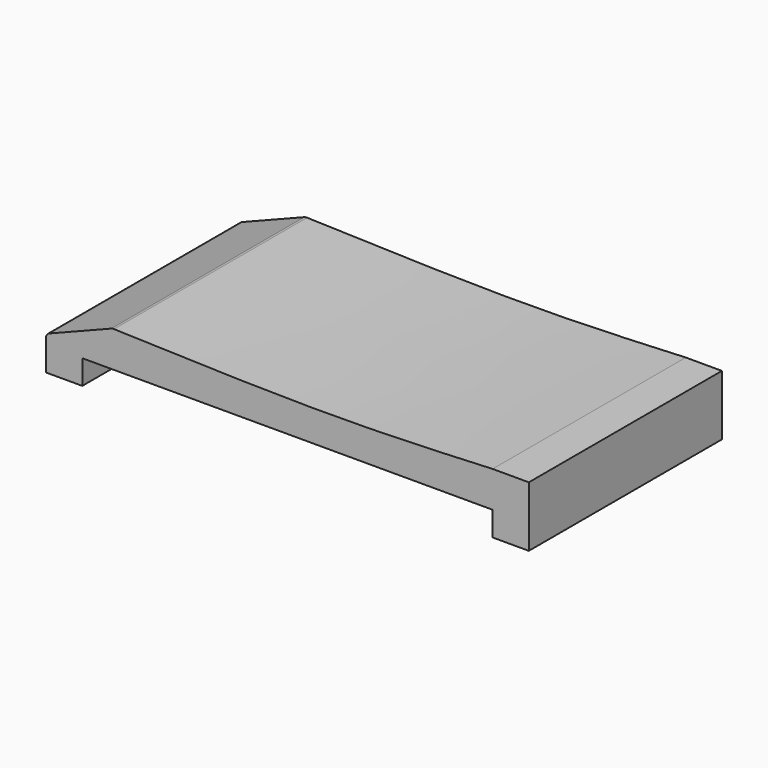
from build123d import *

# Parameters (mm, degrees)
F1_DEPTH = 100


with BuildPart() as f1:
    # F0 (on Front) → F1 (new body)
    with BuildSketch(Plane.XZ):
        with BuildLine():
            Line((120.0741728375, 0), (135.0741728375, 0))
            Line((135.0741728375, 0), (135.0741728375, 25))
            Line((135.0741728375, 25), (120.0741728375, 25))
            add(Edge.make_bspline(
                [(54.6545017668, 23), (78.3219379597, 23.1046927603), (99.1980553986, 24.0523463801), (120.0741728375, 25)],
                knots=[0.5426051209, 0.5426051209, 0.5426051209, 0.5426051209, 1, 1, 1, 1], degree=3))
            add(Edge.make_bspline(
                [(-36.8098244289, 24.9793669669), (-5.0124766294, 23.9241959427), (26.7597618153, 22.8766077872), (54.6545017668, 23)],
                knots=[0.0035137253, 0.0035137253, 0.0035137253, 0.0035137253, 0.5426051209, 0.5426051209, 0.5426051209, 0.5426051209], degree=3))
            ThreePointArc((-36.8098244289, 24.9793669669), (-37.4207013219, 24.9371113718), (-38.0102732534, 24.771699609))
            Line((-38.0102732534, 24.771699609), (-63.4567896839, 14.7328052322))
            ThreePointArc((-63.4567896839, 14.7328052322), (-64.5167270718, 14.0166117551), (-64.9258271625, 12.804573192))
            Line((-64.9258271625, 12.804573192), (-64.9258271625, 0))
            Line((-64.9258271625, 0), (-49.9258271625, 0))
            Line((-49.9258271625, 0), (-49.9258271625, 10.1049847556))
            Line((-49.9258271625, 10.1049847556), (120.0741728375, 10.1049847556))
            Line((120.0741728375, 10.1049847556), (120.0741728375, 0))
        make_face()
    extrude(amount=F1_DEPTH)


solid = f1.part
